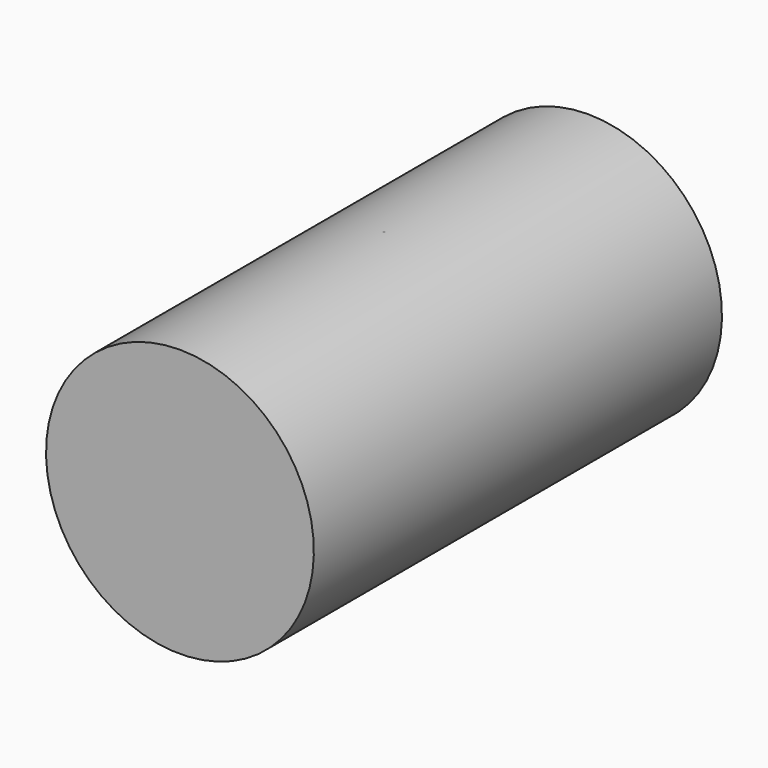
from build123d import *

# Parameters (mm, degrees)
F0_W   = 0.3
F0_H   = 21.4
F0_W_2 = 0.7
F0_H_2 = 114.61
F0_W_3 = 10
F0_H_3 = 115.1
F0_W_4 = 249


with BuildPart() as f1:
    # F0 (on Right) → F1 (revolve)
    with BuildSketch(Plane.YZ):
        with BuildLine():
            Line((-0.7, -136.01), (-0.7, -21.4))
            Line((-0.7, -21.4), (-1, -21.4))
            Line((-1, -21.4), (-1, -136.01))
            ThreePointArc((-1, -136.01), (-0.9673992022, -136.2632563594), (-0.8717224329, -136.5))
            Line((-0.8717224329, -136.5), (0, -136.5))
            Line((0, -136.5), (0, -136.01))
            Line((0, -136.01), (-0.7, -136.01))
        make_face()
        with BuildLine():
            Line((0, -137.01), (0, -136.5))
            Line((0, -136.5), (-0.8717224329, -136.5))
            ThreePointArc((-0.8717224329, -136.5), (-0.5049752469, -136.8731338251), (0, -137.01))
        make_face()
        with Locations((-0.85, -10.7)):
            Rectangle(F0_W, F0_H)
    revolve(axis=Axis((0, 0, 263.5), (0, 0, -1)))


with BuildPart() as f2:
    # F0 (on Right) → F2 (revolve)
    with BuildSketch(Plane.YZ):
        with Locations((-0.35, -78.705)):
            Rectangle(F0_W_2, F0_H_2)
        with Locations((-0.35, -10.7)):
            Rectangle(F0_W_2, F0_H)
    revolve(axis=Axis((0, 0, 263.5), (0, 0, -1)))


with BuildPart() as f3:
    # F0 (on Right) → F3 (revolve)
    with BuildSketch(Plane.YZ):
        with Locations((255, -10.7)):
            Rectangle(F0_W_3, F0_H)
        with Locations((255, -78.95)):
            Rectangle(F0_W_3, F0_H_3)
        with Locations((125.5, -10.7)):
            Rectangle(F0_W_4, F0_H)
        with Locations((-125.5, -10.7)):
            Rectangle(F0_W_4, F0_H)
        with Locations((0.85, -10.7)):
            Rectangle(F0_W, F0_H)
        with Locations((-0.85, -10.7)):
            Rectangle(F0_W, F0_H)
        with Locations((0.35, -10.7)):
            Rectangle(F0_W_2, F0_H)
        with Locations((-0.35, -10.7)):
            Rectangle(F0_W_2, F0_H)
        with Locations((-255, -10.7)):
            Rectangle(F0_W_3, F0_H)
        with Locations((-255, -78.95)):
            Rectangle(F0_W_3, F0_H_3)
    revolve(axis=Axis((0, 0, -136.5), (0, 1, 0)))


solid = Compound([f1.part, f2.part, f3.part])
